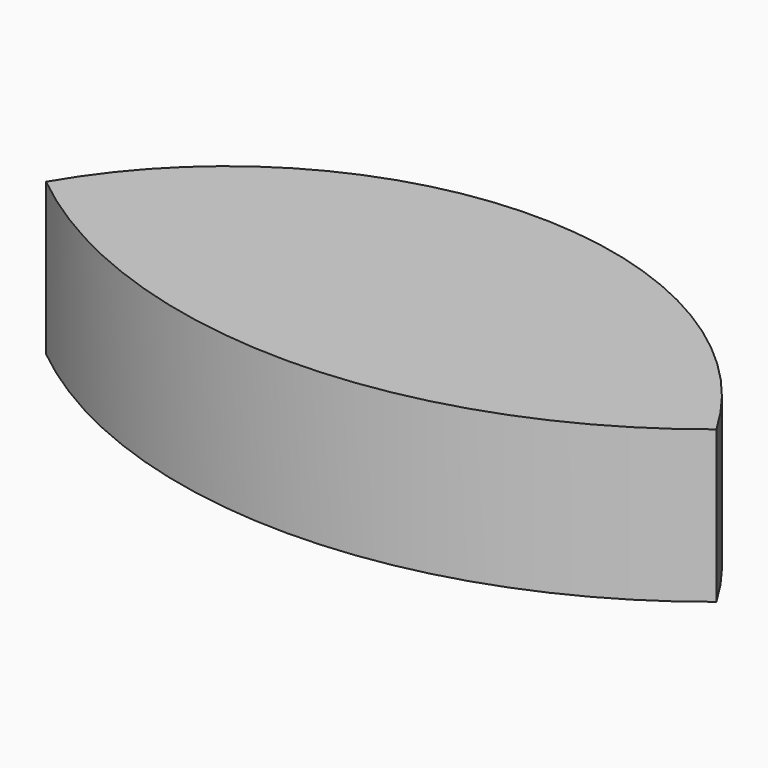
from build123d import *

# Parameters (mm, degrees)
CYLINDER005_R     = 51
CYLINDER005_DEPTH = 20
CYLINDER004_R     = 70.0875
CYLINDER004_DEPTH = 20


with BuildPart() as cylinder005:
    # Cylinder005 → Cylinder005 (new body)
    with BuildSketch(Plane(origin=(105, 68, 0), x_dir=(1, 0, 0), z_dir=(0, 0, 1))):
        Circle(CYLINDER005_R)
    extrude(amount=CYLINDER005_DEPTH)


with BuildPart() as inlet:
    # Cylinder004 → Cylinder004 (new body)
    with BuildSketch(Plane(origin=(105, 148, 0), x_dir=(1, 0, 0), z_dir=(0, 0, 1))):
        Circle(CYLINDER004_R)
    extrude(amount=CYLINDER004_DEPTH)

    # Common: intersect Cylinder005
    add(cylinder005.part, mode=Mode.INTERSECT)


solid = inlet.part
